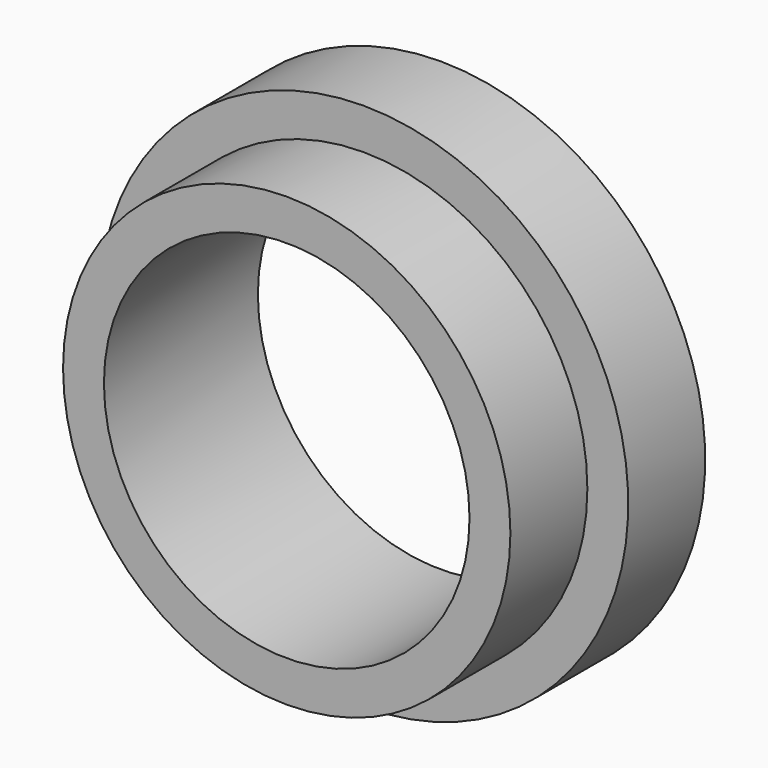
from build123d import *

# Parameters (mm, degrees)
F0_W     = 12.7
F0_H     = 34.925
F0_H_2   = 29.5275
F3_R     = 24.13
F4_DEPTH = 25.4


with BuildPart() as f1:
    # F0 (on Right) → F1 (revolve)
    with BuildSketch(Plane.YZ):
        with Locations((6.35, -17.4625)):
            Rectangle(F0_W, F0_H)
    revolve(axis=Axis((0, 6.35, 0), (0, 1, 0)))

    # F0 (on Right) → F2 (revolve)
    with BuildSketch(Plane.YZ):
        with Locations((6.35, -17.4625)):
            Rectangle(F0_W, F0_H)
        with Locations((-6.35, 14.76375)):
            Rectangle(F0_W, F0_H_2)
    revolve(axis=Axis((0, 0, 0), (0, 1, 0)))

    # F3 (on face) → F4 (cut)
    with BuildSketch(Plane.XZ.offset(12.7)):
        Circle(F3_R)
    extrude(amount=-F4_DEPTH, mode=Mode.SUBTRACT)


solid = f1.part
